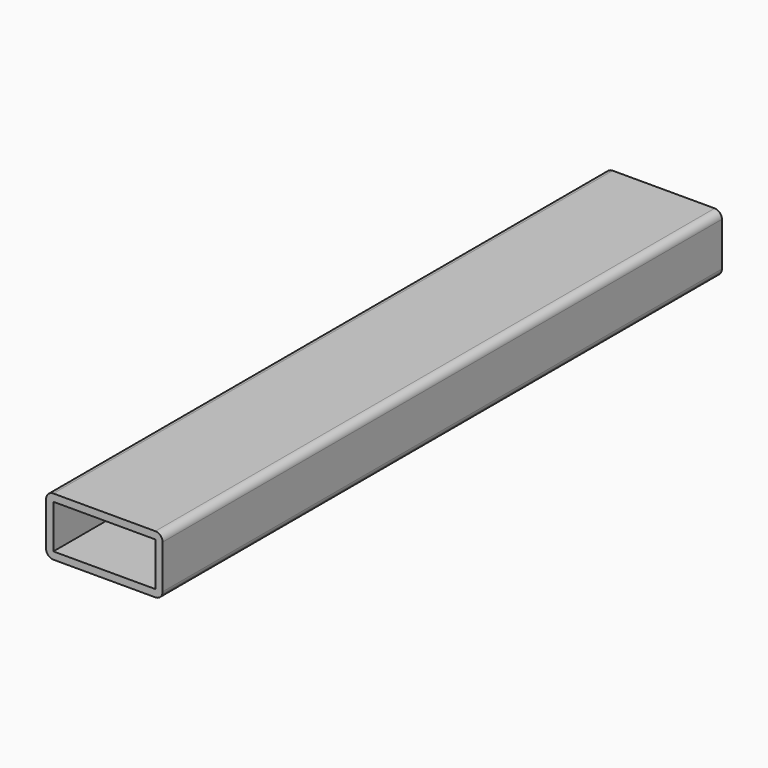
from build123d import *

# Parameters (mm, degrees)
F1_DEPTH = 304.8
F2_W     = 44.45
F2_H     = 19.05
F3_DEPTH = 304.801


with BuildPart() as f1:
    # F0 (on Front) → F1 (new body)
    with BuildSketch(Plane.XZ):
        with BuildLine():
            ThreePointArc((0, 3.175), (0.929936, 0.929936), (3.175, 0))
            Line((3.175, 0), (47.625, 0))
            ThreePointArc((47.625, 0), (49.870064, 0.929936), (50.8, 3.175))
            Line((50.8, 3.175), (50.8, 22.225))
            ThreePointArc((50.8, 22.225), (49.870064, 24.470064), (47.625, 25.4))
            Line((47.625, 25.4), (3.175, 25.4))
            ThreePointArc((3.175, 25.4), (0.929936, 24.470064), (0, 22.225))
            Line((0, 22.225), (0, 3.175))
        make_face()
    extrude(amount=F1_DEPTH)

    # F2 (on face) → F3 (cut, through all)
    with BuildSketch(Plane.XZ.offset(304.8)):
        with Locations((25.4, 12.7)):
            Rectangle(F2_W, F2_H)
    extrude(amount=-F3_DEPTH, mode=Mode.SUBTRACT)


solid = f1.part
